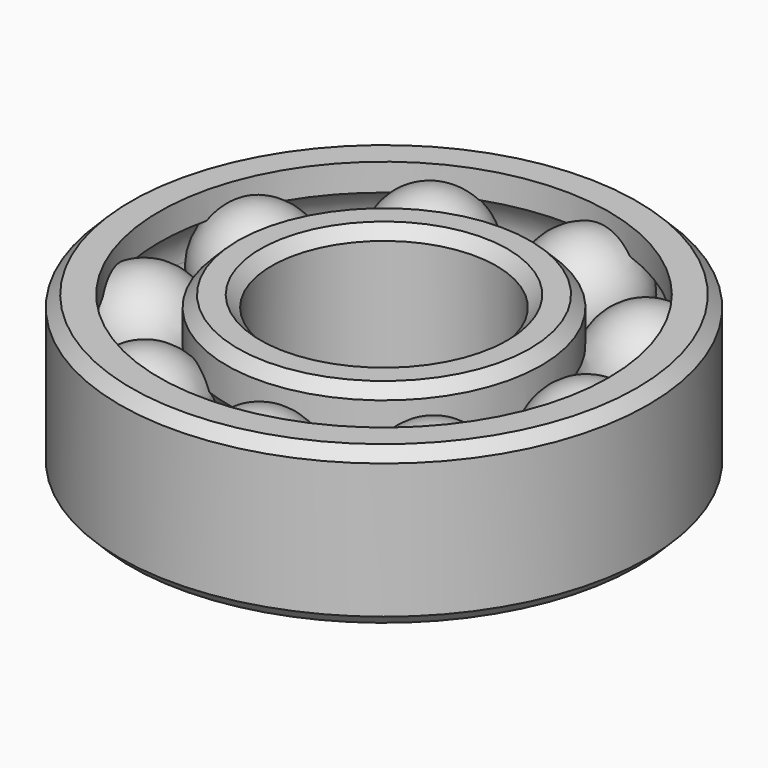
from build123d import *

# Parameters (mm, degrees)
TORUS_R         = 5
TUBE_R          = 14
TUBE_R_2        = 10
TUBE_DEPTH      = 14
CHAMFER003_SIZE = 1
CHAMFER004_SIZE = 1
CHAMFER005_SIZE = 1
ARRAY_COUNT     = 9
TUBE001_R       = 23.5
TUBE001_R_2     = 20
TUBE001_DEPTH   = 14
CHAMFER001_SIZE = 1
CHAMFER002_SIZE = 1


with BuildPart() as torus:
    # Torus → Torus (revolve)
    with BuildSketch(Plane(origin=(0, 0, 7), x_dir=(1, 0, 0), z_dir=(0, -1, 0))):
        with Locations((18, 0)):
            Circle(TORUS_R)
    revolve(axis=Axis((0, 0, 7), (0, 0, 1)))


with BuildPart() as chamfer005:
    # Tube → Tube (new body)
    with BuildSketch(Plane.XY):
        Circle(TUBE_R)
        Circle(TUBE_R_2, mode=Mode.SUBTRACT)
    extrude(amount=TUBE_DEPTH)

    # Cut: cut Torus
    add(torus.part, mode=Mode.SUBTRACT)

    # Chamfer003
    chamfer003_edges = [chamfer005.edges().sort_by_distance(p)[0] for p in [
        (-14, 0, 14),
    ]]
    chamfer(chamfer003_edges, length=CHAMFER003_SIZE)

    # Chamfer004
    chamfer004_edges = [chamfer005.edges().sort_by_distance(p)[0] for p in [
        (-10, 0, 14),
    ]]
    chamfer(chamfer004_edges, length=CHAMFER004_SIZE)

    # Chamfer005
    chamfer005_edges = [chamfer005.edges().sort_by_distance(p)[0] for p in [
        (-10, 0, 0),
        (-14, 0, 0),
    ]]
    chamfer(chamfer005_edges, length=CHAMFER005_SIZE)


with BuildPart() as array:
    # Sphere → Sphere (revolve)
    with BuildSketch(Plane(origin=(16, 0, 8), x_dir=(1, 0, 0), z_dir=(0, -1, 0))):
        with BuildLine():
            ThreePointArc((0, -5), (5, 0), (0, 5))
            Line((0, 5), (0, -5))
        make_face()
    revolve(axis=Axis((16, 0, 8), (0, 0, 1)))

    # Array: Array ×9 about axis
    array_axis = Axis((-1.96, 0.32, 0.26), (0, 0, 1))


with BuildPart() as array_1:
    add(array.part)
    for i in range(1, ARRAY_COUNT):
        add(array.part.rotate(array_axis, i * 360 / ARRAY_COUNT))


with BuildPart() as array_2:
    # Array placement: moved
    add(array_1.part.moved(Location((2, 0, 0))))


with BuildPart() as roulement:
    # Tube001 → Tube001 (new body)
    with BuildSketch(Plane.XY):
        Circle(TUBE001_R)
        Circle(TUBE001_R_2, mode=Mode.SUBTRACT)
    extrude(amount=TUBE001_DEPTH)

    # Cut002: cut Torus
    add(torus.part, mode=Mode.SUBTRACT)

    # Chamfer001
    chamfer001_edges = [roulement.edges().sort_by_distance(p)[0] for p in [
        (-23.5, 0, 14),
    ]]
    chamfer(chamfer001_edges, length=CHAMFER001_SIZE)

    # Chamfer002
    chamfer002_edges = [roulement.edges().sort_by_distance(p)[0] for p in [
        (-23.5, 0, 0),
    ]]
    chamfer(chamfer002_edges, length=CHAMFER002_SIZE)

    # Connect: union Chamfer005, Array
    add(chamfer005.part)
    add(array_2.part)


with BuildPart() as roulement_1:
    # Body002 placement: moved
    add(roulement.part.moved(Location((0.999972, 5e-06, 6.00003))))


solid = roulement_1.part
